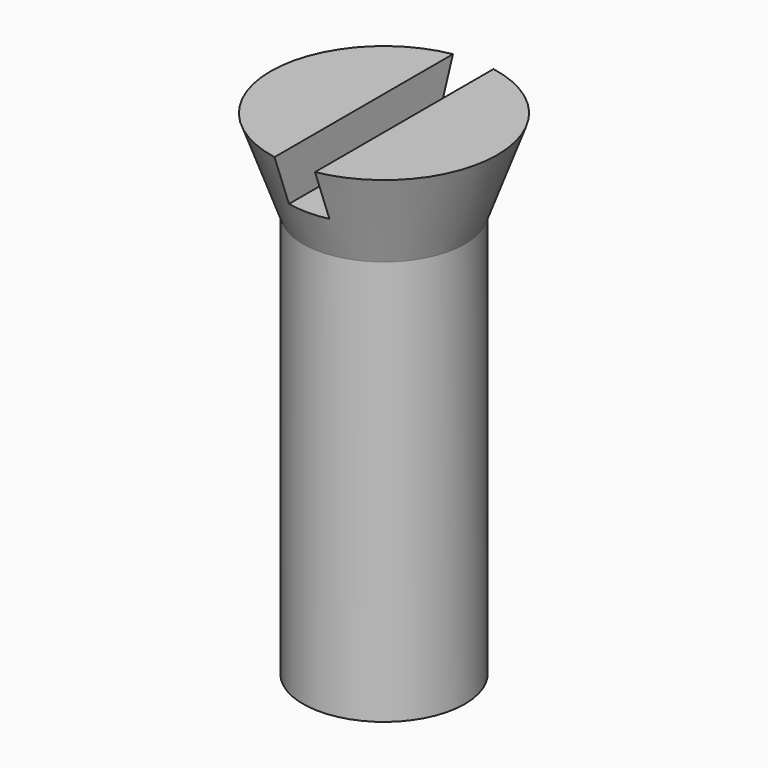
from build123d import *

# Parameters (mm, degrees)
BOX_W          = 1
BOX_H          = 10
BOX_DEPTH      = 2
CYLINDER_R     = 2
CYLINDER_DEPTH = 10


with BuildPart() as cub:
    # Box → Box (new body)
    with BuildSketch(Plane(origin=(-0.5, -5, 1), x_dir=(1, 0, 0), z_dir=(0, 0, 1))):
        with Locations((0.5, 5)):
            Rectangle(BOX_W, BOX_H)
    extrude(amount=BOX_DEPTH)


with BuildPart() as cilindre:
    # Cylinder → Cylinder (new body)
    with BuildSketch(Plane.XY.offset(-10)):
        Circle(CYLINDER_R)
    extrude(amount=CYLINDER_DEPTH)


with BuildPart() as cut:
    # Cone → Cone (revolve)
    with BuildSketch(Plane.XZ):
        Polygon((0, 0), (2, 0), (2.8, 2.2), (0, 2.2), align=None)
    revolve(axis=Axis((0, 0, 0), (0, 0, 1)))

    # Fusion: union Cilindre
    add(cilindre.part)

    # Cut: cut Cub
    add(cub.part, mode=Mode.SUBTRACT)


solid = cut.part
